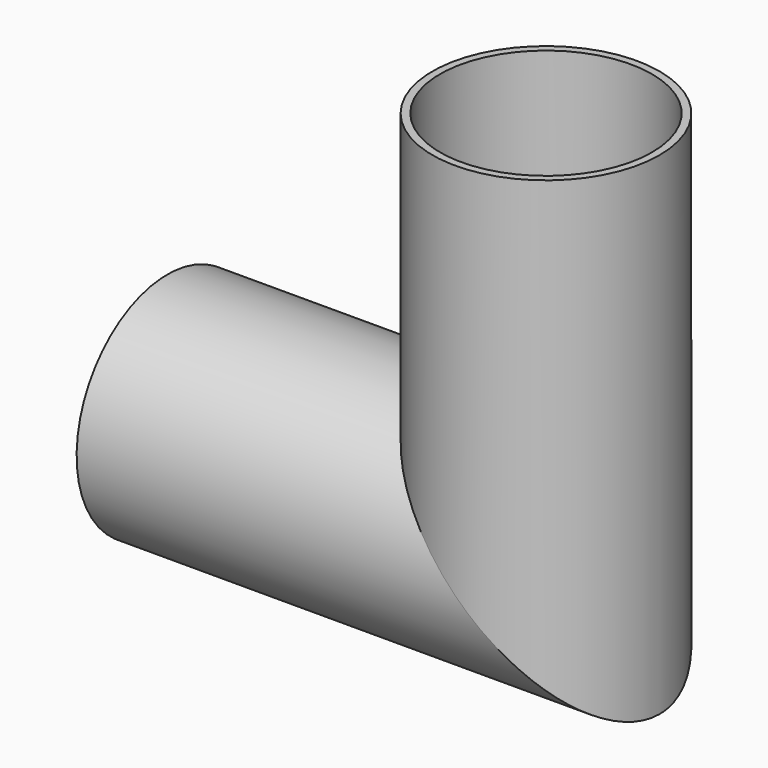
from build123d import *

# Parameters (mm, degrees)
F2_R   = 30
F2_R_2 = 28


with BuildPart() as f3:
    # F3: sweep along a path in F0
    with BuildLine(Plane.XZ) as f3_path:
        Line((0, 100), (0, 0))
        Line((0, 0), (-100, 0))
    # F2 (on plane+point) → F3 (sweep)
    with BuildSketch(Plane.XY.offset(100)):
        Circle(F2_R)
        Circle(F2_R_2, mode=Mode.SUBTRACT)
    sweep(path=f3_path.line, transition=Transition.RIGHT)


solid = f3.part
